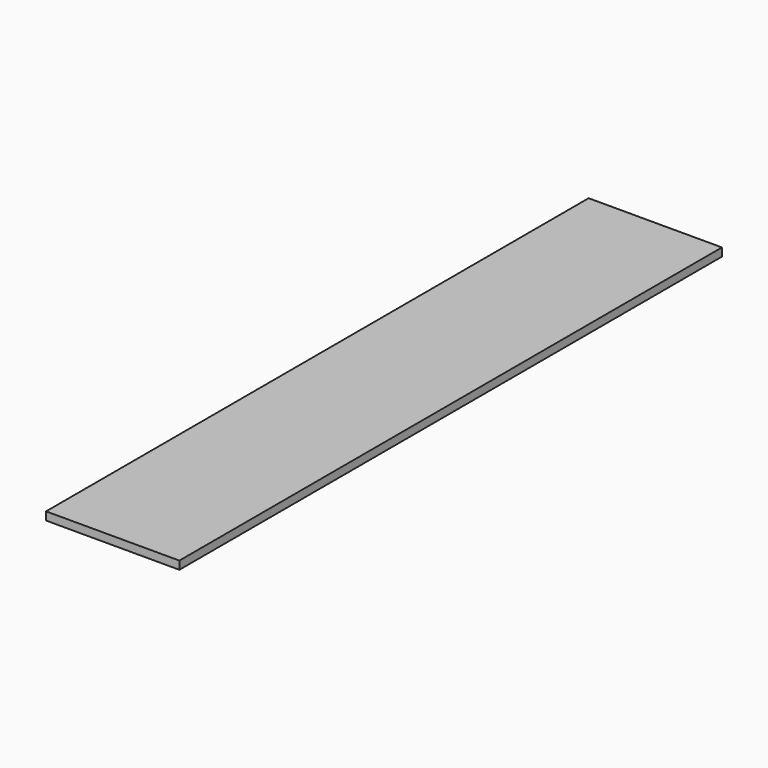
from build123d import *

# Parameters (mm, degrees)
SKETCH_W  = 625
SKETCH_H  = 3180
PAD_DEPTH = 38.1


with BuildPart() as part:
    # Sketch → Pad (new body)
    with BuildSketch(Plane.XY):
        with Locations((312.5, -1590)):
            Rectangle(SKETCH_W, SKETCH_H)
    extrude(amount=PAD_DEPTH)


solid = part.part
